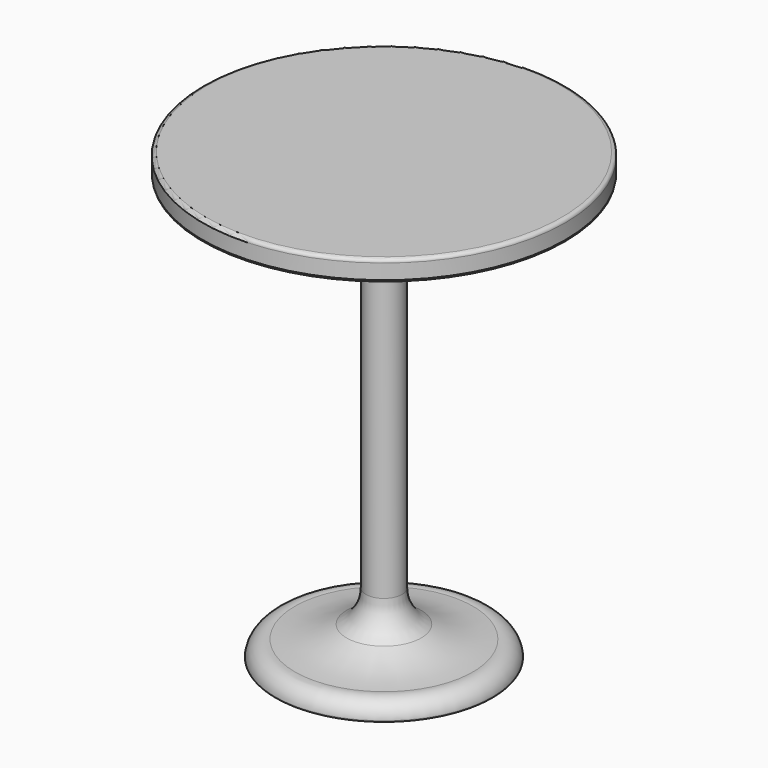
from build123d import *

# Parameters (mm, degrees)
F2_R = 0.5
F3_R = 5
F4_R = 0.2
F5_R = 5


with BuildPart() as f1:
    # F0 (on Front) → F1 (revolve)
    with BuildSketch(Plane.XZ):
        with BuildLine():
            ThreePointArc((-12.288766, 2.345386), (-14.196692, 1.811155), (-15, 0))
            Line((-15, 0), (0, 0))
            Line((0, 0), (0, 53))
            Line((0, 53), (0, 55))
            ThreePointArc((0, 55), (-11.528526, 55.960878), (-22.738913, 58.816996))
            ThreePointArc((-22.738913, 58.816996), (-23.869976, 58.871906), (-25, 58.798671))
            ThreePointArc((-25, 58.798671), (-14.091668, 54.572892), (-2.5, 52.997415))
            Line((-2.5, 52.997415), (-2.5, 5.940038))
            ThreePointArc((-2.5, 5.940038), (-7.085095, 3.300476), (-12.288766, 2.345386))
        make_face()
        with BuildLine():
            Line((0, 61.574519), (-25.044294, 61.574519))
            Line((-25.044294, 61.574519), (-25.044294, 58.994731))
            ThreePointArc((-25.044294, 58.994731), (-23.870227, 59.071911), (-22.695079, 59.013455))
            ThreePointArc((-22.695079, 59.013455), (-11.506618, 56.16), (0, 55.2))
            Line((0, 55.2), (0, 61.574519))
        make_face()
    revolve(axis=Axis((0, 0, 26.5), (0, 0, 1)))

    # F2
    f2_edges = [f1.edges().sort_by_distance(p)[0] for p in [
        (25.044294, 0, 61.574519),
    ]]
    fillet(f2_edges, radius=F2_R)

    # F3
    f3_edges = [f1.edges().sort_by_distance(p)[0] for p in [
        (2.5, 0, 5.940038),
    ]]
    fillet(f3_edges, radius=F3_R)

    # F4
    f4_edges = [f1.edges().sort_by_distance(p)[0] for p in [
        (15, 0, 0),
    ]]
    fillet(f4_edges, radius=F4_R)

    # F5
    f5_edges = [f1.edges().sort_by_distance(p)[0] for p in [
        (2.5, 0, 52.997415),
    ]]
    fillet(f5_edges, radius=F5_R)


solid = f1.part
